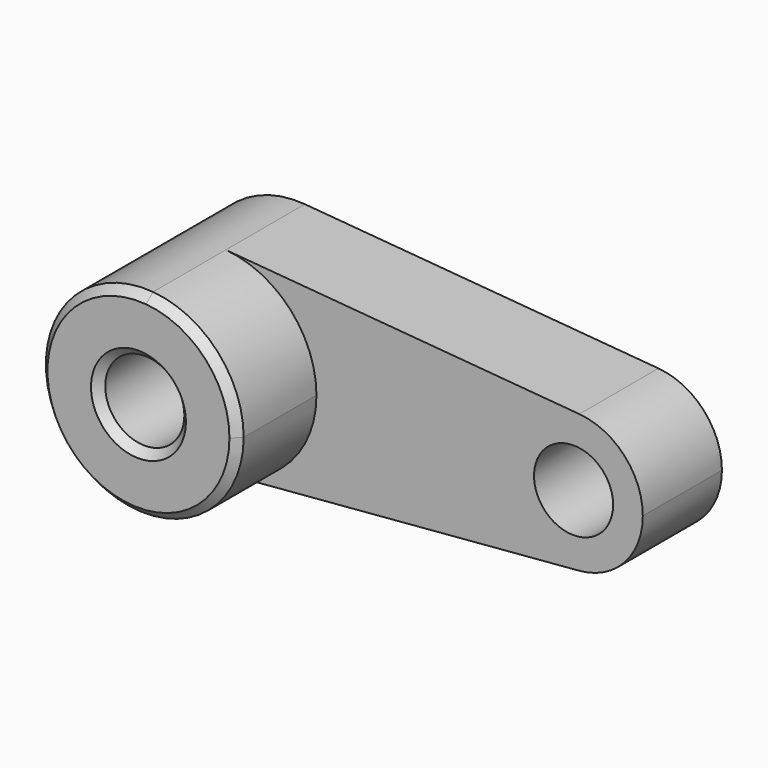
from build123d import *

# Parameters (mm, degrees)
F0_R     = 10
F1_DEPTH = 25
F2_DEPTH = 50
F3_SIZE  = 2


with BuildPart() as f1:
    # F0 (on Front) → F1 (new body)
    with BuildSketch(Plane.XZ):
        with BuildLine():
            ThreePointArc((2.083333, -24.913043), (18.399502, -16.92508), (25, 0))
            ThreePointArc((25, 0), (18.399502, 16.92508), (2.083333, 24.913043))
            ThreePointArc((2.083333, 24.913043), (-25, 0), (2.083333, -24.913043))
        make_face()
        Circle(F0_R, mode=Mode.SUBTRACT)
        with BuildLine():
            ThreePointArc((2.083333, 24.913043), (18.399502, 16.92508), (25, 0))
            ThreePointArc((25, 0), (18.399502, -16.92508), (2.083333, -24.913043))
            Line((2.083333, -24.913043), (91.458333, -17.43913))
            ThreePointArc((91.458333, -17.43913), (72.5, 0), (91.458333, 17.43913))
            Line((91.458333, 17.43913), (2.083333, 24.913043))
        make_face()
        with BuildLine():
            ThreePointArc((107.5, 0), (102.879651, 11.847556), (91.458333, 17.43913))
            ThreePointArc((91.458333, 17.43913), (72.5, 0), (91.458333, -17.43913))
            ThreePointArc((91.458333, -17.43913), (102.879651, -11.847556), (107.5, 0))
        make_face()
        with Locations((90, 0)):
            Circle(F0_R, mode=Mode.SUBTRACT)
    extrude(amount=F1_DEPTH)

    # F0 (on Front) → F2 (join)
    with BuildSketch(Plane.XZ):
        with BuildLine():
            ThreePointArc((2.083333, -24.913043), (18.399502, -16.92508), (25, 0))
            ThreePointArc((25, 0), (18.399502, 16.92508), (2.083333, 24.913043))
            ThreePointArc((2.083333, 24.913043), (-25, 0), (2.083333, -24.913043))
        make_face()
        Circle(F0_R, mode=Mode.SUBTRACT)
    extrude(amount=F2_DEPTH)

    # F3
    f3_edges = [f1.edges().sort_by_distance(p)[0] for p in [
        (-2.083333, -50, 24.913043),
        (-10, -50, 0),
    ]]
    chamfer(f3_edges, length=F3_SIZE)


solid = f1.part
